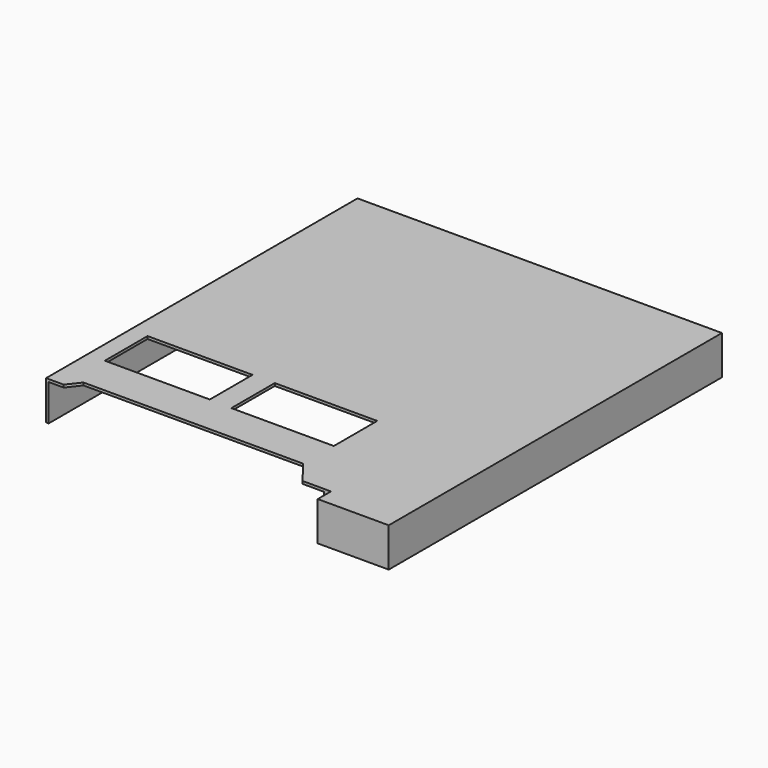
from build123d import *

# Parameters (mm, degrees)
F0_W     = 14
F0_H     = 16
F1_DEPTH = 1.5
F2_W     = 10.9
F2_H     = 1.4
F3_DEPTH = 15
F5_DEPTH = 25
F6_W     = 4.033105
F6_H     = 2.050732
F6_W_2   = 3.937547
F6_H_2   = 2.08491
F7_DEPTH = 25


with BuildPart() as f1:
    # F0 (on Top) → F1 (new body)
    with BuildSketch(Plane.XY):
        Rectangle(F0_W, F0_H)
    extrude(amount=F1_DEPTH)

    # F2 (on face) → F3 (cut)
    with BuildSketch(Plane.XZ.offset(8)):
        with Locations((-1.45, 0.7)):
            Rectangle(F2_W, F2_H)
    extrude(amount=-F3_DEPTH, mode=Mode.SUBTRACT)

    # F4 (on face) → F5 (cut)
    with BuildSketch(Plane.XY.offset(1.5)):
        Polygon((-7, -8), (4.272356, -8), (4.272356, -7.365542), (3.178632, -7.365542), (2.495055, -6.476892), (-5.947122, -6.476892), (-6.323089, -6.955396), (-7, -6.955396), align=None)
    extrude(amount=-F5_DEPTH, mode=Mode.SUBTRACT)

    # F6 (on face) → F7 (cut)
    with BuildSketch(Plane.XY.offset(1.5)):
        with Locations((-4.313515, -3.946002)):
            Rectangle(F6_W, F6_H)
        with Locations((0.526281, -3.963091)):
            Rectangle(F6_W_2, F6_H_2)
    extrude(amount=-F7_DEPTH, mode=Mode.SUBTRACT)


solid = f1.part
